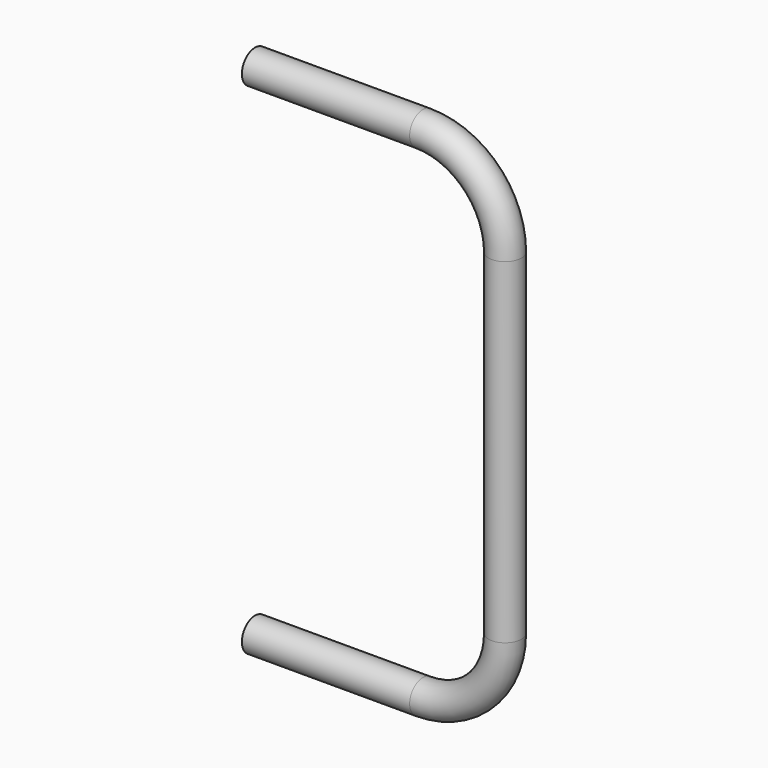
from build123d import *

# Parameters (mm, degrees)
F1_R = 5


with BuildPart() as f2:
    # F2: sweep along a path in F0
    with BuildLine(Plane.XZ) as f2_path:
        Line((0, 152), (51, 152))
        ThreePointArc((51, 152), (68.67767, 144.67767), (76, 127))
        Line((76, 127), (76, 25))
        ThreePointArc((76, 25), (68.67767, 7.32233), (51, 0))
        Line((51, 0), (0, 0))
    # F1 (on Right) → F2 (sweep)
    with BuildSketch(Plane.YZ):
        Circle(F1_R)
    sweep(path=f2_path.line)


solid = f2.part
